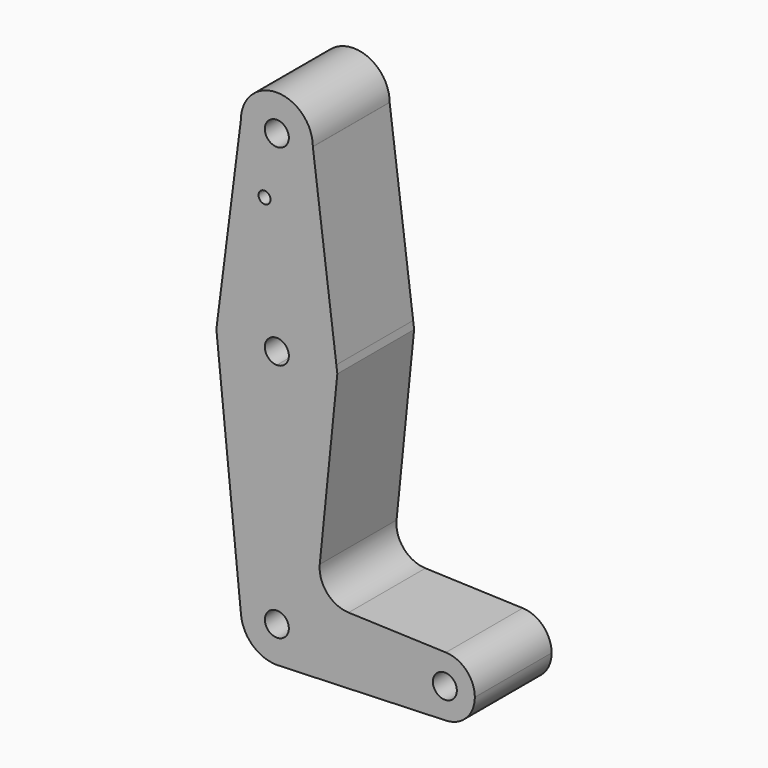
from build123d import *

# Parameters (mm, degrees)
F0_R     = 3.175
F0_R_2   = 1.5875
F1_DEPTH = 25.4


with BuildPart() as f1:
    # F0 (on Front) → F1 (new body)
    with BuildSketch(Plane.XZ):
        with BuildLine():
            ThreePointArc((9.5249517198, 50.7696728449), (9.5249879299, 50.7848364032), (9.525, 50.8))
            ThreePointArc((9.525, 50.8), (-0.0202321023, 60.3249785124), (-9.5249140498, 50.7595358867))
            ThreePointArc((-9.5249140498, 50.7595358867), (0.0050685141, 41.2750013485), (9.5249517198, 50.7696728449))
        make_face()
        with Locations((0, 50.8)):
            Circle(F0_R, mode=Mode.SUBTRACT)
        with BuildLine():
            ThreePointArc((9.5249517198, 50.7696728449), (0.0050685141, 41.2750013485), (-9.5249140498, 50.7595358867))
            Line((-9.5249140498, 50.7595358867), (-15.7472441812, 2.0099566407))
            ThreePointArc((-15.7472441812, 2.0099566407), (0.0002131737, 15.8749999986), (15.747298156, 2.0095337237))
            Line((15.747298156, 2.0095337237), (9.5249517198, 50.7696728449))
        make_face()
        with Locations((-3.2588925678, 34.8244979978)):
            Circle(F0_R_2, mode=Mode.SUBTRACT)
        with BuildLine():
            ThreePointArc((15.747298156, 2.0095337237), (0.0002131737, 15.8749999986), (-15.7472441812, 2.0099566407))
            ThreePointArc((-15.7472441812, 2.0099566407), (-11.9147741622, -10.4906521087), (0, -15.875))
            ThreePointArc((0, -15.875), (11.2253201513, -11.2253201513), (15.875, 0))
            ThreePointArc((15.875, 0), (15.8430423724, 1.0067936168), (15.747298156, 2.0095337237))
        make_face()
        with BuildLine():
            ThreePointArc((3.175, 0), (2.2450640303, -2.2450640303), (0, -3.175))
            ThreePointArc((0, -3.175), (-2.2450640303, 2.2450640303), (3.175, 0))
        make_face(mode=Mode.SUBTRACT)
        with BuildLine():
            ThreePointArc((0, -15.875), (-11.9147741622, -10.4906521087), (-15.7472441812, 2.0099566407))
            Line((-15.7472441812, 2.0099566407), (-16.0037923189, 0))
            Line((-16.0037923189, 0), (-9.476538549, -64.4596051943))
            ThreePointArc((-9.476538549, -64.4596051943), (-7.0663238136, -57.1130842528), (0, -53.975))
            Line((0, -53.975), (0, -15.875))
        make_face()
        with BuildLine():
            Line((16.0037374367, 0), (15.747298156, 2.0095337237))
            ThreePointArc((15.747298156, 2.0095337237), (15.8430423724, 1.0067936168), (15.875, 0))
            ThreePointArc((15.875, 0), (11.2253201513, -11.2253201513), (0, -15.875))
            Line((0, -15.875), (0, -53.975))
            ThreePointArc((0, -53.975), (6.7351920908, -56.7648079092), (9.525, -63.5))
            ThreePointArc((9.525, -63.5), (6.9705567315, -69.9912990883), (0.6773435479, -73.000885786))
            Line((0.6773435479, -73.000885786), (44.7324052746, -71.4324746146))
            ThreePointArc((44.7324052746, -71.4324746146), (36.5125, -63.5), (44.7324052746, -55.5675253854))
            Line((44.7324052746, -55.5675253854), (18.9823100295, -54.6507922005))
            ThreePointArc((18.9823100295, -54.6507922005), (13.2732291719, -51.9307915834), (11.3554156352, -45.9046818239))
            Line((11.3554156352, -45.9046818239), (16.0037374367, 0))
        make_face()
        with BuildLine():
            ThreePointArc((9.525, -63.5), (6.7351920908, -56.7648079092), (0, -53.975))
            ThreePointArc((0, -53.975), (-7.0663238136, -57.1130842528), (-9.476538549, -64.4596051943))
            ThreePointArc((-9.476538549, -64.4596051943), (-6.3869157472, -70.5663238136), (0, -73.025))
            Line((0, -73.025), (0.6773435479, -73.000885786))
            ThreePointArc((0.6773435479, -73.000885786), (6.9705567315, -69.9912990883), (9.525, -63.5))
        make_face()
        with BuildLine():
            ThreePointArc((3.175, -63.5), (-2.2450640303, -65.7450640303), (0, -60.325))
            ThreePointArc((0, -60.325), (2.2450640303, -61.2549359697), (3.175, -63.5))
        make_face(mode=Mode.SUBTRACT)
        with BuildLine():
            Line((0.6773435479, -73.000885786), (0, -73.025))
            ThreePointArc((0, -73.025), (0.3388863295, -73.0189695375), (0.6773435479, -73.000885786))
        make_face()
        with BuildLine():
            ThreePointArc((52.3875, -63.5), (50.1616327839, -57.9880895153), (44.7324052746, -55.5675253854))
            ThreePointArc((44.7324052746, -55.5675253854), (36.5125, -63.5), (44.7324052746, -71.4324746146))
            ThreePointArc((44.7324052746, -71.4324746146), (50.1616327839, -69.0119104847), (52.3875, -63.5))
        make_face()
        with Locations((44.45, -63.5)):
            Circle(F0_R, mode=Mode.SUBTRACT)
    extrude(amount=F1_DEPTH)


solid = f1.part
